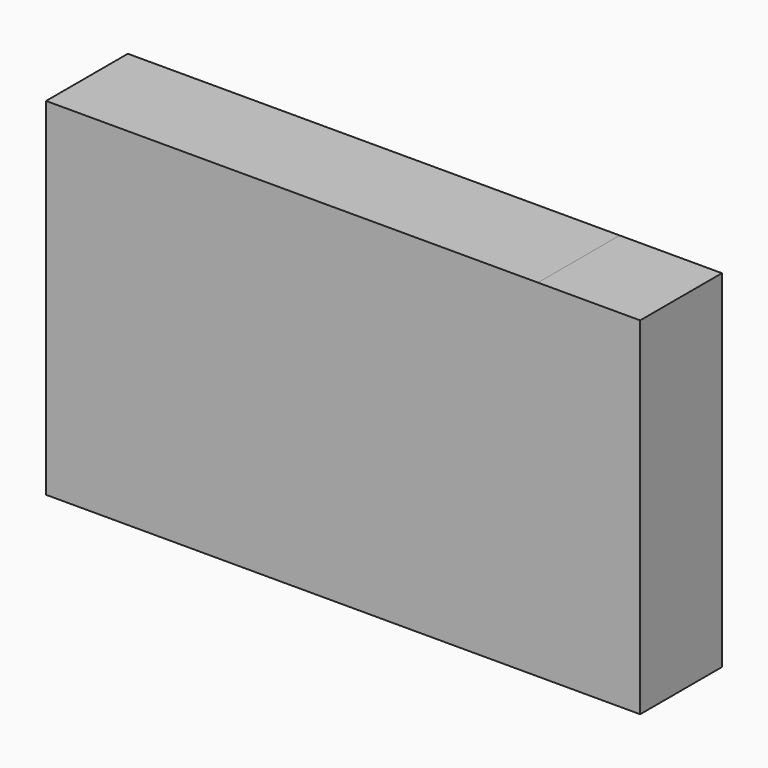
from build123d import *

# Parameters (mm, degrees)
F0_W      = 122.237506
F0_H      = 86.178569
F0_R      = 5.588
F1_DEPTH  = 25.4
F2_DEPTH  = 6.35
F1_FACE_W = 25.4
F1_FACE_H = 86.17857
F3_DEPTH  = 25.4


with BuildPart() as f1:
    # F0 (on Front) → F1 (new body)
    with BuildSketch(Plane.XZ):
        with Locations((7.295383, 23.799686)):
            Rectangle(F0_W, F0_H)
        with Locations((-20.712655, 27.768438)):
            Circle(F0_R, mode=Mode.SUBTRACT)
        with Locations((42.787345, 27.314865)):
            Circle(F0_R, mode=Mode.SUBTRACT)
        with Locations((42.787345, 27.314865)):
            Circle(F0_R)
        with Locations((-20.712655, 27.768438)):
            Circle(F0_R)
    extrude(amount=F1_DEPTH)

    # F0 (on Front) → F2 (join)
    with BuildSketch(Plane.XZ):
        with Locations((42.787345, 27.314865)):
            Circle(F0_R)
        with Locations((-20.712655, 27.768438)):
            Circle(F0_R)
    extrude(amount=-F2_DEPTH)

    # F1_face (on face) → F3 (join)
    with BuildSketch(Plane(origin=(68.414136, -12.7, 23.799686), x_dir=(0, 1, 0), z_dir=(1, 0, 0))):
        Rectangle(F1_FACE_W, F1_FACE_H)
    extrude(amount=F3_DEPTH)


solid = f1.part
